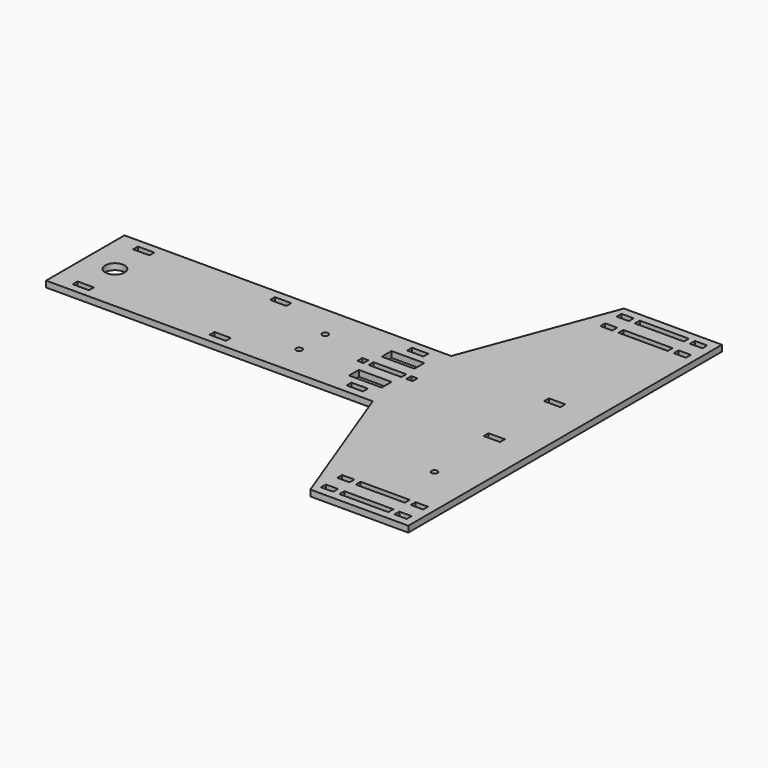
from build123d import *

# Parameters (mm, degrees)
F0_W     = 38.1
F0_H     = 19.05
F0_W_2   = 152.4
F0_H_2   = 19.416131
F0_R     = 9.525
F0_W_3   = 50.8
F0_R_2   = 30.1244
F0_W_4   = 37.285626
F0_W_5   = 152.91512
F0_H_3   = 18.948435
F1_DEPTH = 19.05


with BuildPart() as f1:
    # F0 (on Top) → F1 (new body)
    with BuildSketch(Plane.XY):
        Polygon((273.206008, -643.359119), (578.006008, -643.359119), (578.006008, -186.159119), (578.006008, -167.109119), (578.006008, -160.759119), (476.885, -160.759119), (426.085, -160.759119), (101.6, -160.759119), (101.6, -186.159119), align=None)
        with Locations((304.956008, -608.434119)):
            Rectangle(F0_W, F0_H, mode=Mode.SUBTRACT)
        with Locations((304.956008, -544.934119)):
            Rectangle(F0_W, F0_H, mode=Mode.SUBTRACT)
        with Locations((419.256008, -608.251053)):
            Rectangle(F0_W_2, F0_H_2, mode=Mode.SUBTRACT)
        with Locations((533.556008, -608.434119)):
            Rectangle(F0_W, F0_H, mode=Mode.SUBTRACT)
        with Locations((419.256008, -544.567988)):
            Rectangle(F0_W_2, F0_H, mode=Mode.SUBTRACT)
        with Locations((533.556008, -544.934119)):
            Rectangle(F0_W, F0_H, mode=Mode.SUBTRACT)
        with Locations((451.006008, -382.642988)):
            Circle(F0_R, mode=Mode.SUBTRACT)
        Polygon((-914.4, -186.159119), (101.6, -186.159119), (101.6, -160.759119), (101.6, -43.478698), (92.075, -43.478698), (92.075, -24.428698), (101.6, -24.428698), (101.6, 93.240881), (50.8, 93.240881), (50.8, 74.190881), (0, 74.190881), (0, 93.240881), (-375.285, 93.240881), (-375.285, 74.190881), (-426.085, 74.190881), (-426.085, 93.240881), (-801.37, 93.240881), (-801.37, 74.190881), (-852.17, 74.190881), (-852.17, 93.240881), (-914.4, 93.240881), (-914.4, 74.190881), (-914.4, -167.109119), align=None)
        with Locations((-826.77, -151.234119)):
            Rectangle(F0_W_3, F0_H, mode=Mode.SUBTRACT)
        with Locations((-822.0456, -33.759119)):
            Circle(F0_R_2, mode=Mode.SUBTRACT)
        with Locations((-400.685, -151.234119)):
            Rectangle(F0_W_3, F0_H, mode=Mode.SUBTRACT)
        with Locations((-208.684325, -84.559119)):
            Circle(F0_R, mode=Mode.SUBTRACT)
        Polygon((-41.275, -24.428698), (-41.275, -33.953698), (-41.275, -43.478698), (-60.325, -43.478698), (-60.325, -33.953698), (-60.325, -24.428698), align=None, mode=Mode.SUBTRACT)
        with Locations((25.4, -151.234119)):
            Rectangle(F0_W_3, F0_H, mode=Mode.SUBTRACT)
        Polygon((-27.94, -78.209119), (24.7487, -78.209119), (73.66, -78.209119), (73.66, -116.309119), (-27.94, -116.309119), align=None, mode=Mode.SUBTRACT)
        Polygon((-25.4, -24.428698), (24.7487, -24.428698), (76.2, -24.428698), (76.2, -43.478698), (24.7487, -43.478698), (-25.4, -43.478698), (-25.4, -33.953698), align=None, mode=Mode.SUBTRACT)
        with Locations((-208.684325, 17.040881)):
            Circle(F0_R, mode=Mode.SUBTRACT)
        Polygon((-27.94, 10.690881), (-27.94, 48.790881), (73.66, 48.790881), (73.66, 10.690881), (24.7487, 10.690881), align=None, mode=Mode.SUBTRACT)
        Polygon((476.885, -160.759119), (578.006008, -160.759119), (578.006008, 74.190881), (578.006008, 93.240881), (476.885, 93.240881), (476.885, 74.190881), (426.085, 74.190881), (426.085, 93.240881), (101.6, 93.240881), (101.6, -24.428698), (111.125, -24.428698), (111.125, -43.478698), (101.6, -43.478698), (101.6, -160.759119), (426.085, -160.759119), (426.085, -141.709119), (476.885, -141.709119), align=None)
        Polygon((476.885, 93.240881), (578.006008, 93.240881), (578.006008, 575.840881), (273.206008, 575.840881), (101.6, 118.640881), (101.6, 93.240881), (426.085, 93.240881), align=None)
        with Locations((304.848075, 477.415881)):
            Rectangle(F0_W_4, F0_H, mode=Mode.SUBTRACT)
        with Locations((304.956008, 540.915881)):
            Rectangle(F0_W, F0_H, mode=Mode.SUBTRACT)
        with Locations((418.998448, 477.466663)):
            Rectangle(F0_W_5, F0_H_3, mode=Mode.SUBTRACT)
        with Locations((533.556008, 477.415881)):
            Rectangle(F0_W, F0_H, mode=Mode.SUBTRACT)
        with Locations((419.256008, 540.915881)):
            Rectangle(F0_W_2, F0_H, mode=Mode.SUBTRACT)
        with Locations((533.556008, 540.915881)):
            Rectangle(F0_W, F0_H, mode=Mode.SUBTRACT)
        Polygon((-914.4, 118.640881), (-914.4, 93.240881), (-852.17, 93.240881), (-801.37, 93.240881), (-426.085, 93.240881), (-375.285, 93.240881), (0, 93.240881), (50.8, 93.240881), (101.6, 93.240881), (101.6, 118.640881), align=None)
    extrude(amount=F1_DEPTH)


solid = f1.part
